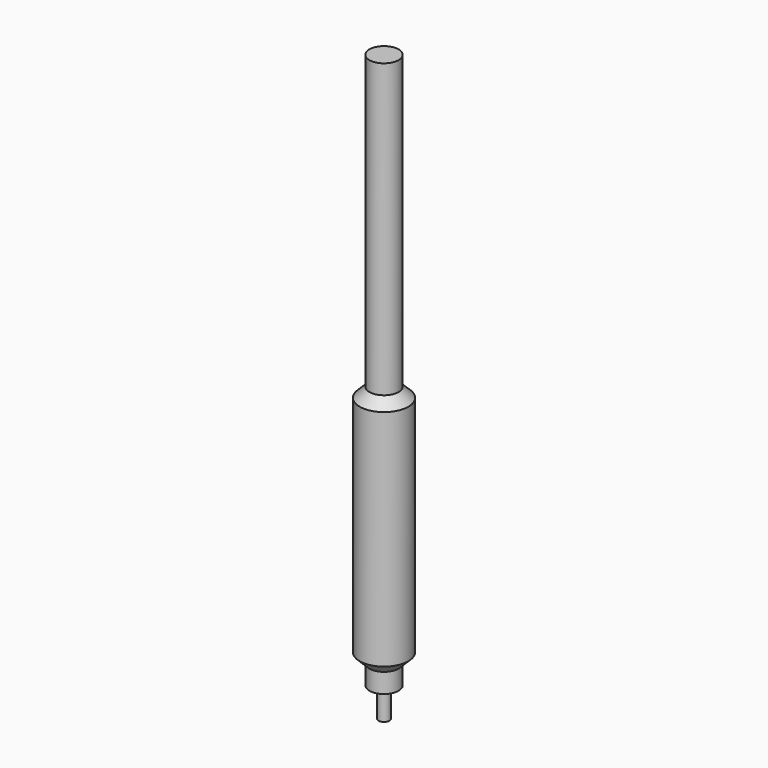
from build123d import *

# Parameters (mm, degrees)
SKETCH_R    = 1.5
SKETCH001_R = 1.5
SKETCH002_R = 2.5
SKETCH003_R = 2.5
SKETCH004_R = 1.5
SKETCH005_R = 1.5
SKETCH006_R = 0.575
PAD_DEPTH   = 3


with BuildPart() as part:
    # Sketch → AdditiveLoft section 0
    with BuildSketch(Plane.XY):
        Circle(SKETCH_R)
    # Sketch001 (on DatumPlane) → AdditiveLoft section 1
    with BuildSketch(Plane.XY.offset(2)):
        Circle(SKETCH001_R)
    # Sketch002 (on DatumPlane) → AdditiveLoft section 2
    with BuildSketch(Plane(origin=(0, 0, 3), x_dir=(0, 1, 0), z_dir=(0, 0, 1))):
        Circle(SKETCH002_R)
    # Sketch003 (on DatumPlane) → AdditiveLoft section 3
    with BuildSketch(Plane(origin=(0, 0, 26), x_dir=(0, 1, 0), z_dir=(0, 0, 1))):
        Circle(SKETCH003_R)
    # Sketch004 (on DatumPlane) → AdditiveLoft section 4
    with BuildSketch(Plane(origin=(0, 0, 27), x_dir=(-1, 0, 0), z_dir=(0, 0, 1))):
        Circle(SKETCH004_R)
    # Sketch005 (on DatumPlane) → AdditiveLoft section 5
    with BuildSketch(Plane(origin=(0, 0, 57), x_dir=(0, -1, 0), z_dir=(0, 0, 1))):
        Circle(SKETCH005_R)
    loft(ruled=True)

    # Sketch006 (on Face1 of AdditiveLoft) → Pad (new body)
    with BuildSketch(Plane(origin=(0, 0, 0), x_dir=(1, 0, 0), z_dir=(0, 0, -1))):
        Circle(SKETCH006_R)
    extrude(amount=PAD_DEPTH)


solid = part.part
